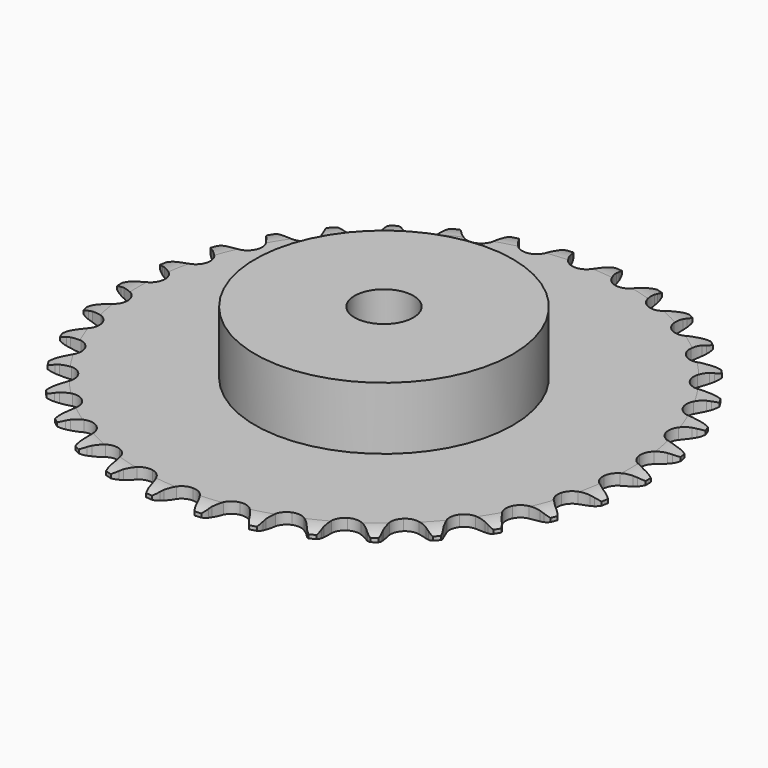
from build123d import *

# Parameters (mm, degrees)
PAD_DEPTH         = 3
SKETCH001_R       = 35
PAD001_DEPTH      = 20
SKETCH002_R       = 8
POCKET_DEPTH      = 0.001
POCKET_DEPTH_BACK = 20.001


with BuildPart() as part:
    # Sprocket → Pad (new body)
    with BuildSketch(Plane.XY):
        with BuildLine():
            ThreePointArc((-6.728572, 72.612852), (-5.651498, 71.430147), (-4.907524, 70.014032))
            Line((-4.907524, 70.014032), (-4.52944, 68.998032))
            ThreePointArc((-4.52944, 68.998032), (-3.930315, 67.683373), (-3.150307, 66.467287))
            ThreePointArc((-3.150307, 66.467287), (-1.761884, 65.305295), (0, 64.888517))
            ThreePointArc((0, 64.888517), (1.761884, 65.305295), (3.150307, 66.467287))
            ThreePointArc((3.150307, 66.467287), (3.930315, 67.683373), (4.52944, 68.998032))
            Line((4.52944, 68.998032), (4.907524, 70.014032))
            ThreePointArc((4.907524, 70.014032), (5.651498, 71.430147), (6.728572, 72.612852))
            ThreePointArc((6.728572, 72.612852), (7.569985, 71.252373), (8.04108, 69.723665))
            Line((8.04108, 69.723665), (8.226038, 68.655491))
            ThreePointArc((8.226038, 68.655491), (8.573393, 67.253128), (9.116665, 65.914422))
            ThreePointArc((9.116665, 65.914422), (10.267932, 64.517094), (11.923234, 63.783666))
            ThreePointArc((11.923234, 63.783666), (13.731701, 63.869603), (15.309998, 64.756687))
            Line((15.309998, 64.756687), (17.130672, 66.990927))
            ThreePointArc((17.130672, 66.990927), (17.397405, 67.463013), (17.689009, 67.920155))
            ThreePointArc((17.689009, 67.920155), (18.680525, 69.175453), (19.956581, 70.140108))
            ThreePointArc((19.956581, 70.140108), (20.533681, 68.648185), (20.715856, 67.058943))
            Line((20.715856, 67.058943), (20.701387, 65.974971))
            ThreePointArc((20.701387, 65.974971), (20.785145, 64.532659), (21.07318, 63.116921))
            ThreePointArc((21.07318, 63.116921), (21.948085, 61.53184), (23.440436, 60.50674))
            ThreePointArc((23.440436, 60.50674), (25.233902, 60.258908), (26.948327, 60.840877))
            Line((26.948327, 60.840877), (29.148541, 62.702526))
            ThreePointArc((29.148541, 62.702526), (29.497477, 63.117563), (29.868116, 63.513338))
            ThreePointArc((29.868116, 63.513338), (31.07341, 64.565072), (32.504994, 65.278827))
            ThreePointArc((32.504994, 65.278827), (32.798127, 63.706265), (32.685177, 62.110609))
            Line((32.685177, 62.110609), (32.471776, 61.047751))
            ThreePointArc((32.471776, 61.047751), (32.289083, 59.614607), (32.312073, 58.170049))
            ThreePointArc((32.312073, 58.170049), (32.880823, 56.451193), (34.159402, 55.169329))
            ThreePointArc((34.159402, 55.169329), (35.876792, 54.596168), (37.668962, 54.853203))
            Line((37.668962, 54.853203), (40.17379, 56.278866))
            ThreePointArc((40.17379, 56.278866), (40.593048, 56.622719), (41.0301, 56.943651))
            ThreePointArc((41.0301, 56.943651), (42.408127, 57.756005), (43.946487, 58.194554))
            ThreePointArc((43.946487, 58.194554), (43.945672, 56.594905), (43.541444, 55.047172))
            Line((43.541444, 55.047172), (43.136377, 54.041624))
            ThreePointArc((43.136377, 54.041624), (42.693455, 52.666452), (42.450617, 51.242265))
            ThreePointArc((42.450617, 51.242265), (42.693845, 49.448169), (43.715111, 47.953192))
            ThreePointArc((43.715111, 47.953192), (45.297941, 47.074222), (47.106826, 46.99757))
            Line((47.106826, 46.99757), (49.83097, 47.938697))
            ThreePointArc((49.83097, 47.938697), (50.306271, 48.199657), (50.794853, 48.434816))
            ThreePointArc((50.794853, 48.434816), (52.298686, 48.980126), (53.891436, 49.128536))
            ThreePointArc((53.891436, 49.128536), (53.5967, 47.556273), (52.91496, 46.10917))
            Line((52.91496, 46.10917), (52.332021, 45.195175))
            ThreePointArc((52.332021, 45.195175), (51.643953, 43.924804), (51.143556, 42.569488))
            ThreePointArc((51.143556, 42.569488), (51.052978, 40.761247), (51.782154, 39.104068))
            ThreePointArc((51.782154, 39.104068), (53.176523, 37.949219), (54.940524, 37.54149))
            Line((54.940524, 37.54149), (57.791215, 37.966033))
            ThreePointArc((57.791215, 37.966033), (58.306375, 38.135213), (58.829848, 38.276592))
            ThreePointArc((58.829848, 38.276592), (60.408276, 38.536288), (62.001177, 38.389503))
            ThreePointArc((62.001177, 38.389503), (61.422556, 36.89817), (60.48652, 35.600975))
            Line((60.48652, 35.600975), (59.74556, 34.809657))
            ThreePointArc((59.74556, 34.809657), (58.835778, 33.687349), (58.094862, 32.447058))
            ThreePointArc((58.094862, 32.447058), (57.673563, 30.686249), (58.085818, 28.923301))
            ThreePointArc((58.085818, 28.923301), (59.244242, 27.531901), (60.903287, 26.80698))
            Line((60.903287, 26.80698), (63.78345, 26.700481))
            ThreePointArc((63.78345, 26.700481), (64.320925, 26.77212), (64.861463, 26.814904))
            ThreePointArc((64.861463, 26.814904), (66.460735, 26.780143), (67.999542, 26.343163))
            ThreePointArc((67.999542, 26.343163), (67.156741, 24.983543), (65.998284, 23.880432))
            Line((65.998284, 23.880432), (65.124536, 23.238739))
            ThreePointArc((65.124536, 23.238739), (64.024022, 22.302712), (63.067818, 21.219682))
            ThreePointArc((63.067818, 21.219682), (62.330145, 19.566268), (62.411439, 17.757585))
            ThreePointArc((62.411439, 17.757585), (63.29447, 16.177017), (64.792063, 15.159591))
            Line((64.792063, 15.159591), (67.603616, 14.525677))
            ThreePointArc((67.603616, 14.525677), (68.145103, 14.497335), (68.684299, 14.440067))
            ThreePointArc((68.684299, 14.440067), (70.249953, 14.112032), (71.682264, 13.399737))
            ThreePointArc((71.682264, 13.399737), (70.603984, 12.218132), (69.262555, 11.34667))
            Line((69.262555, 11.34667), (68.285774, 10.876453))
            ThreePointArc((68.285774, 10.876453), (67.032004, 10.158583), (65.893075, 9.269695))
            ThreePointArc((65.893075, 9.269695), (64.864148, 7.779981), (64.611714, 5.987157))
            ThreePointArc((64.611714, 5.987157), (65.18928, 4.271244), (66.474422, 2.99596))
            Line((66.474422, 2.99596), (69.121622, 1.856217))
            ThreePointArc((69.121622, 1.856217), (69.648682, 1.72886), (70.168174, 1.57349))
            ThreePointArc((70.168174, 1.57349), (71.646893, 0.963353), (72.923932, 0))
            ThreePointArc((72.923932, 0), (71.646893, -0.963353), (70.168174, -1.57349))
            Line((70.168174, -1.57349), (69.121622, -1.856217))
            ThreePointArc((69.121622, -1.856217), (67.757291, -2.331485), (66.474422, -2.99596))
            ThreePointArc((66.474422, -2.99596), (65.18928, -4.271244), (64.611714, -5.987157))
            ThreePointArc((64.611714, -5.987157), (64.864148, -7.779981), (65.893075, -9.269695))
            Line((65.893075, -9.269695), (68.285774, -10.876453))
            ThreePointArc((68.285774, -10.876453), (68.780458, -11.098489), (69.262555, -11.34667))
            ThreePointArc((69.262555, -11.34667), (70.603984, -12.218132), (71.682264, -13.399737))
            ThreePointArc((71.682264, -13.399737), (70.249953, -14.112032), (68.684299, -14.440067))
            Line((68.684299, -14.440067), (67.603616, -14.525677))
            ThreePointArc((67.603616, -14.525677), (66.175185, -14.742156), (64.792063, -15.159591))
            ThreePointArc((64.792063, -15.159591), (63.29447, -16.177017), (62.411439, -17.757585))
            ThreePointArc((62.411439, -17.757585), (62.330145, -19.566268), (63.067818, -21.219682))
            Line((63.067818, -21.219682), (65.124536, -23.238739))
            ThreePointArc((65.124536, -23.238739), (65.569998, -23.547892), (65.998284, -23.880432))
            ThreePointArc((65.998284, -23.880432), (67.156741, -24.983543), (67.999542, -26.343163))
            ThreePointArc((67.999542, -26.343163), (66.460735, -26.780143), (64.861463, -26.814904))
            Line((64.861463, -26.814904), (63.78345, -26.700481))
            ThreePointArc((63.78345, -26.700481), (62.339563, -26.650802), (60.903287, -26.80698))
            ThreePointArc((60.903287, -26.80698), (59.244242, -27.531901), (58.085818, -28.923301))
            ThreePointArc((58.085818, -28.923301), (57.673563, -30.686249), (58.094862, -32.447058))
            Line((58.094862, -32.447058), (59.74556, -34.809657))
            ThreePointArc((59.74556, -34.809657), (60.12663, -35.1954), (60.48652, -35.600975))
            ThreePointArc((60.48652, -35.600975), (61.422556, -36.89817), (62.001177, -38.389503))
            ThreePointArc((62.001177, -38.389503), (60.408276, -38.536288), (58.829848, -38.276592))
            Line((58.829848, -38.276592), (57.791215, -37.966033))
            ThreePointArc((57.791215, -37.966033), (56.381041, -37.651886), (54.940524, -37.54149))
            ThreePointArc((54.940524, -37.54149), (53.176523, -37.949219), (51.782154, -39.104068))
            ThreePointArc((51.782154, -39.104068), (51.052978, -40.761247), (51.143556, -42.569488))
            Line((51.143556, -42.569488), (52.332021, -45.195175))
            ThreePointArc((52.332021, -45.195175), (52.635722, -45.64437), (52.91496, -46.10917))
            ThreePointArc((52.91496, -46.10917), (53.5967, -47.556273), (53.891436, -49.128536))
            ThreePointArc((53.891436, -49.128536), (52.298686, -48.980126), (50.794853, -48.434816))
            Line((50.794853, -48.434816), (49.83097, -47.938697))
            ThreePointArc((49.83097, -47.938697), (48.502531, -47.37078), (47.106826, -46.99757))
            ThreePointArc((47.106826, -46.99757), (45.297941, -47.074222), (43.715111, -47.953192))
            ThreePointArc((43.715111, -47.953192), (42.693845, -49.448169), (42.450617, -51.242265))
            Line((42.450617, -51.242265), (43.136377, -54.041624))
            ThreePointArc((43.136377, -54.041624), (43.352368, -54.538977), (43.541444, -55.047172))
            ThreePointArc((43.541444, -55.047172), (43.945672, -56.594905), (43.946487, -58.194554))
            ThreePointArc((43.946487, -58.194554), (42.408127, -57.756005), (41.0301, -56.943651))
            Line((41.0301, -56.943651), (40.17379, -56.278866))
            ThreePointArc((40.17379, -56.278866), (38.972325, -55.476519), (37.668962, -54.853203))
            ThreePointArc((37.668962, -54.853203), (35.876792, -54.596168), (34.159402, -55.169329))
            ThreePointArc((34.159402, -55.169329), (32.880823, -56.451193), (32.312073, -58.170049))
            Line((32.312073, -58.170049), (32.471776, -61.047751))
            ThreePointArc((32.471776, -61.047751), (32.592701, -61.576324), (32.685177, -62.110609))
            ThreePointArc((32.685177, -62.110609), (32.798127, -63.706265), (32.504994, -65.278827))
            ThreePointArc((32.504994, -65.278827), (31.07341, -64.565072), (29.868116, -63.513338))
            Line((29.868116, -63.513338), (29.148541, -62.702526))
            ThreePointArc((29.148541, -62.702526), (28.114964, -61.693072), (26.948327, -60.840877))
            ThreePointArc((26.948327, -60.840877), (25.233902, -60.258908), (23.440436, -60.50674))
            ThreePointArc((23.440436, -60.50674), (21.948085, -61.53184), (21.07318, -63.116921))
            Line((21.07318, -63.116921), (20.701387, -65.974971))
            ThreePointArc((20.701387, -65.974971), (20.723129, -66.516763), (20.715856, -67.058943))
            ThreePointArc((20.715856, -67.058943), (20.533681, -68.648185), (19.956581, -70.140108))
            ThreePointArc((19.956581, -70.140108), (18.680525, -69.175453), (17.689009, -67.920155))
            Line((17.689009, -67.920155), (17.130672, -66.990927))
            ThreePointArc((17.130672, -66.990927), (16.300181, -65.808741), (15.309998, -64.756687))
            ThreePointArc((15.309998, -64.756687), (13.731701, -63.869603), (11.923234, -63.783666))
            ThreePointArc((11.923234, -63.783666), (10.267932, -64.517094), (9.116665, -65.914422))
            Line((9.116665, -65.914422), (8.226038, -68.655491))
            ThreePointArc((8.226038, -68.655491), (8.147855, -69.192054), (8.04108, -69.723665))
            ThreePointArc((8.04108, -69.723665), (7.569985, -71.252373), (6.728572, -72.612852))
            ThreePointArc((6.728572, -72.612852), (5.651498, -71.430147), (4.907524, -70.014032))
            Line((4.907524, -70.014032), (4.52944, -68.998032))
            ThreePointArc((4.52944, -68.998032), (3.930315, -67.683373), (3.150307, -66.467287))
            ThreePointArc((3.150307, -66.467287), (1.761884, -65.305295), (0, -64.888517))
            ThreePointArc((0, -64.888517), (-1.761884, -65.305295), (-3.150307, -66.467287))
            Line((-3.150307, -66.467287), (-4.52944, -68.998032))
            ThreePointArc((-4.52944, -68.998032), (-4.704885, -69.511092), (-4.907524, -70.014032))
            ThreePointArc((-4.907524, -70.014032), (-5.651498, -71.430147), (-6.728572, -72.612852))
            ThreePointArc((-6.728572, -72.612852), (-7.569985, -71.252373), (-8.04108, -69.723665))
            Line((-8.04108, -69.723665), (-8.226038, -68.655491))
            ThreePointArc((-8.226038, -68.655491), (-8.573393, -67.253128), (-9.116665, -65.914422))
            ThreePointArc((-9.116665, -65.914422), (-10.267932, -64.517094), (-11.923234, -63.783666))
            ThreePointArc((-11.923234, -63.783666), (-13.731701, -63.869603), (-15.309998, -64.756687))
            Line((-15.309998, -64.756687), (-17.130672, -66.990927))
            ThreePointArc((-17.130672, -66.990927), (-17.397405, -67.463013), (-17.689009, -67.920155))
            ThreePointArc((-17.689009, -67.920155), (-18.680525, -69.175453), (-19.956581, -70.140108))
            ThreePointArc((-19.956581, -70.140108), (-20.533681, -68.648185), (-20.715856, -67.058943))
            Line((-20.715856, -67.058943), (-20.701387, -65.974971))
            ThreePointArc((-20.701387, -65.974971), (-20.785145, -64.532659), (-21.07318, -63.116921))
            ThreePointArc((-21.07318, -63.116921), (-21.948085, -61.53184), (-23.440436, -60.50674))
            ThreePointArc((-23.440436, -60.50674), (-25.233902, -60.258908), (-26.948327, -60.840877))
            Line((-26.948327, -60.840877), (-29.148541, -62.702526))
            ThreePointArc((-29.148541, -62.702526), (-29.497477, -63.117563), (-29.868116, -63.513338))
            ThreePointArc((-29.868116, -63.513338), (-31.07341, -64.565072), (-32.504994, -65.278827))
            ThreePointArc((-32.504994, -65.278827), (-32.798127, -63.706265), (-32.685177, -62.110609))
            Line((-32.685177, -62.110609), (-32.471776, -61.047751))
            ThreePointArc((-32.471776, -61.047751), (-32.289083, -59.614607), (-32.312073, -58.170049))
            ThreePointArc((-32.312073, -58.170049), (-32.880823, -56.451193), (-34.159402, -55.169329))
            ThreePointArc((-34.159402, -55.169329), (-35.876792, -54.596168), (-37.668962, -54.853203))
            Line((-37.668962, -54.853203), (-40.17379, -56.278866))
            ThreePointArc((-40.17379, -56.278866), (-40.593048, -56.622719), (-41.0301, -56.943651))
            ThreePointArc((-41.0301, -56.943651), (-42.408127, -57.756005), (-43.946487, -58.194554))
            ThreePointArc((-43.946487, -58.194554), (-43.945672, -56.594905), (-43.541444, -55.047172))
            Line((-43.541444, -55.047172), (-43.136377, -54.041624))
            ThreePointArc((-43.136377, -54.041624), (-42.693455, -52.666452), (-42.450617, -51.242265))
            ThreePointArc((-42.450617, -51.242265), (-42.693845, -49.448169), (-43.715111, -47.953192))
            ThreePointArc((-43.715111, -47.953192), (-45.297941, -47.074222), (-47.106826, -46.99757))
            Line((-47.106826, -46.99757), (-49.83097, -47.938697))
            ThreePointArc((-49.83097, -47.938697), (-50.306271, -48.199657), (-50.794853, -48.434816))
            ThreePointArc((-50.794853, -48.434816), (-52.298686, -48.980126), (-53.891436, -49.128536))
            ThreePointArc((-53.891436, -49.128536), (-53.5967, -47.556273), (-52.91496, -46.10917))
            Line((-52.91496, -46.10917), (-52.332021, -45.195175))
            ThreePointArc((-52.332021, -45.195175), (-51.643953, -43.924804), (-51.143556, -42.569488))
            ThreePointArc((-51.143556, -42.569488), (-51.052978, -40.761247), (-51.782154, -39.104068))
            ThreePointArc((-51.782154, -39.104068), (-53.176523, -37.949219), (-54.940524, -37.54149))
            Line((-54.940524, -37.54149), (-57.791215, -37.966033))
            ThreePointArc((-57.791215, -37.966033), (-58.306375, -38.135213), (-58.829848, -38.276592))
            ThreePointArc((-58.829848, -38.276592), (-60.408276, -38.536288), (-62.001177, -38.389503))
            ThreePointArc((-62.001177, -38.389503), (-61.422556, -36.89817), (-60.48652, -35.600975))
            Line((-60.48652, -35.600975), (-59.74556, -34.809657))
            ThreePointArc((-59.74556, -34.809657), (-58.835778, -33.687349), (-58.094862, -32.447058))
            ThreePointArc((-58.094862, -32.447058), (-57.673563, -30.686249), (-58.085818, -28.923301))
            ThreePointArc((-58.085818, -28.923301), (-59.244242, -27.531901), (-60.903287, -26.80698))
            Line((-60.903287, -26.80698), (-63.78345, -26.700481))
            ThreePointArc((-63.78345, -26.700481), (-64.320925, -26.77212), (-64.861463, -26.814904))
            ThreePointArc((-64.861463, -26.814904), (-66.460735, -26.780143), (-67.999542, -26.343163))
            ThreePointArc((-67.999542, -26.343163), (-67.156741, -24.983543), (-65.998284, -23.880432))
            Line((-65.998284, -23.880432), (-65.124536, -23.238739))
            ThreePointArc((-65.124536, -23.238739), (-64.024022, -22.302712), (-63.067818, -21.219682))
            ThreePointArc((-63.067818, -21.219682), (-62.330145, -19.566268), (-62.411439, -17.757585))
            ThreePointArc((-62.411439, -17.757585), (-63.29447, -16.177017), (-64.792063, -15.159591))
            Line((-64.792063, -15.159591), (-67.603616, -14.525677))
            ThreePointArc((-67.603616, -14.525677), (-68.145103, -14.497335), (-68.684299, -14.440067))
            ThreePointArc((-68.684299, -14.440067), (-70.249953, -14.112032), (-71.682264, -13.399737))
            ThreePointArc((-71.682264, -13.399737), (-70.603984, -12.218132), (-69.262555, -11.34667))
            Line((-69.262555, -11.34667), (-68.285774, -10.876453))
            ThreePointArc((-68.285774, -10.876453), (-67.032004, -10.158583), (-65.893075, -9.269695))
            ThreePointArc((-65.893075, -9.269695), (-64.864148, -7.779981), (-64.611714, -5.987157))
            ThreePointArc((-64.611714, -5.987157), (-65.18928, -4.271244), (-66.474422, -2.99596))
            Line((-66.474422, -2.99596), (-69.121622, -1.856217))
            ThreePointArc((-69.121622, -1.856217), (-69.648682, -1.72886), (-70.168174, -1.57349))
            ThreePointArc((-70.168174, -1.57349), (-71.646893, -0.963353), (-72.923932, 0))
            ThreePointArc((-72.923932, 0), (-71.646893, 0.963353), (-70.168174, 1.57349))
            Line((-70.168174, 1.57349), (-69.121622, 1.856217))
            ThreePointArc((-69.121622, 1.856217), (-67.757291, 2.331485), (-66.474422, 2.99596))
            ThreePointArc((-66.474422, 2.99596), (-65.18928, 4.271244), (-64.611714, 5.987157))
            ThreePointArc((-64.611714, 5.987157), (-64.864148, 7.779981), (-65.893075, 9.269695))
            Line((-65.893075, 9.269695), (-68.285774, 10.876453))
            ThreePointArc((-68.285774, 10.876453), (-68.780458, 11.098489), (-69.262555, 11.34667))
            ThreePointArc((-69.262555, 11.34667), (-70.603984, 12.218132), (-71.682264, 13.399737))
            ThreePointArc((-71.682264, 13.399737), (-70.249953, 14.112032), (-68.684299, 14.440067))
            Line((-68.684299, 14.440067), (-67.603616, 14.525677))
            ThreePointArc((-67.603616, 14.525677), (-66.175185, 14.742156), (-64.792063, 15.159591))
            ThreePointArc((-64.792063, 15.159591), (-63.29447, 16.177017), (-62.411439, 17.757585))
            ThreePointArc((-62.411439, 17.757585), (-62.330145, 19.566268), (-63.067818, 21.219682))
            Line((-63.067818, 21.219682), (-65.124536, 23.238739))
            ThreePointArc((-65.124536, 23.238739), (-65.569998, 23.547892), (-65.998284, 23.880432))
            ThreePointArc((-65.998284, 23.880432), (-67.156741, 24.983543), (-67.999542, 26.343163))
            ThreePointArc((-67.999542, 26.343163), (-66.460735, 26.780143), (-64.861463, 26.814904))
            Line((-64.861463, 26.814904), (-63.78345, 26.700481))
            ThreePointArc((-63.78345, 26.700481), (-62.339563, 26.650802), (-60.903287, 26.80698))
            ThreePointArc((-60.903287, 26.80698), (-59.244242, 27.531901), (-58.085818, 28.923301))
            ThreePointArc((-58.085818, 28.923301), (-57.673563, 30.686249), (-58.094862, 32.447058))
            Line((-58.094862, 32.447058), (-59.74556, 34.809657))
            ThreePointArc((-59.74556, 34.809657), (-60.12663, 35.1954), (-60.48652, 35.600975))
            ThreePointArc((-60.48652, 35.600975), (-61.422556, 36.89817), (-62.001177, 38.389503))
            ThreePointArc((-62.001177, 38.389503), (-60.408276, 38.536288), (-58.829848, 38.276592))
            Line((-58.829848, 38.276592), (-57.791215, 37.966033))
            ThreePointArc((-57.791215, 37.966033), (-56.381041, 37.651886), (-54.940524, 37.54149))
            ThreePointArc((-54.940524, 37.54149), (-53.176523, 37.949219), (-51.782154, 39.104068))
            ThreePointArc((-51.782154, 39.104068), (-51.052978, 40.761247), (-51.143556, 42.569488))
            Line((-51.143556, 42.569488), (-52.332021, 45.195175))
            ThreePointArc((-52.332021, 45.195175), (-52.635722, 45.64437), (-52.91496, 46.10917))
            ThreePointArc((-52.91496, 46.10917), (-53.5967, 47.556273), (-53.891436, 49.128536))
            ThreePointArc((-53.891436, 49.128536), (-52.298686, 48.980126), (-50.794853, 48.434816))
            Line((-50.794853, 48.434816), (-49.83097, 47.938697))
            ThreePointArc((-49.83097, 47.938697), (-48.502531, 47.37078), (-47.106826, 46.99757))
            ThreePointArc((-47.106826, 46.99757), (-45.297941, 47.074222), (-43.715111, 47.953192))
            ThreePointArc((-43.715111, 47.953192), (-42.693845, 49.448169), (-42.450617, 51.242265))
            Line((-42.450617, 51.242265), (-43.136377, 54.041624))
            ThreePointArc((-43.136377, 54.041624), (-43.352368, 54.538977), (-43.541444, 55.047172))
            ThreePointArc((-43.541444, 55.047172), (-43.945672, 56.594905), (-43.946487, 58.194554))
            ThreePointArc((-43.946487, 58.194554), (-42.408127, 57.756005), (-41.0301, 56.943651))
            Line((-41.0301, 56.943651), (-40.17379, 56.278866))
            ThreePointArc((-40.17379, 56.278866), (-38.972325, 55.476519), (-37.668962, 54.853203))
            ThreePointArc((-37.668962, 54.853203), (-35.876792, 54.596168), (-34.159402, 55.169329))
            ThreePointArc((-34.159402, 55.169329), (-32.880823, 56.451193), (-32.312073, 58.170049))
            Line((-32.312073, 58.170049), (-32.471776, 61.047751))
            ThreePointArc((-32.471776, 61.047751), (-32.592701, 61.576324), (-32.685177, 62.110609))
            ThreePointArc((-32.685177, 62.110609), (-32.798127, 63.706265), (-32.504994, 65.278827))
            ThreePointArc((-32.504994, 65.278827), (-31.07341, 64.565072), (-29.868116, 63.513338))
            Line((-29.868116, 63.513338), (-29.148541, 62.702526))
            ThreePointArc((-29.148541, 62.702526), (-28.114964, 61.693072), (-26.948327, 60.840877))
            ThreePointArc((-26.948327, 60.840877), (-25.233902, 60.258908), (-23.440436, 60.50674))
            ThreePointArc((-23.440436, 60.50674), (-21.948085, 61.53184), (-21.07318, 63.116921))
            Line((-21.07318, 63.116921), (-20.701387, 65.974971))
            ThreePointArc((-20.701387, 65.974971), (-20.723129, 66.516763), (-20.715856, 67.058943))
            ThreePointArc((-20.715856, 67.058943), (-20.533681, 68.648185), (-19.956581, 70.140108))
            ThreePointArc((-19.956581, 70.140108), (-18.680525, 69.175453), (-17.689009, 67.920155))
            Line((-17.689009, 67.920155), (-17.130672, 66.990927))
            ThreePointArc((-17.130672, 66.990927), (-16.300181, 65.808741), (-15.309998, 64.756687))
            ThreePointArc((-15.309998, 64.756687), (-13.731701, 63.869603), (-11.923234, 63.783666))
            ThreePointArc((-11.923234, 63.783666), (-10.267932, 64.517094), (-9.116665, 65.914422))
            Line((-9.116665, 65.914422), (-8.226038, 68.655491))
            ThreePointArc((-8.226038, 68.655491), (-8.147855, 69.192054), (-8.04108, 69.723665))
            ThreePointArc((-8.04108, 69.723665), (-7.569985, 71.252373), (-6.728572, 72.612852))
        make_face()
    extrude(amount=PAD_DEPTH)

    # Sketch → Groove (revolve, cut)
    with BuildSketch(Plane.XZ):
        with BuildLine():
            Line((66.8, 0), (71.8, 0))
            Line((76.8, 0), (71.8, 0))
            Line((76.8, 3), (76.8, 0))
            Line((71.8, 3), (76.8, 3))
            Line((66.8, 3), (71.8, 3))
            ThreePointArc((71.8, 2), (69.34951, 2.747549), (66.8, 3))
            Line((71.8, 1), (71.8, 2))
            ThreePointArc((66.8, 0), (69.34951, 0.252451), (71.8, 1))
        make_face()
    revolve(axis=Axis((0, 0, 0), (0, 0, 1)), mode=Mode.SUBTRACT)

    # Sketch001 → Pad001 (join)
    with BuildSketch(Plane.XY):
        Circle(SKETCH001_R)
    extrude(amount=PAD001_DEPTH)

    # Sketch002 → Pocket (cut, two sides)
    with BuildSketch(Plane.XY) as pocket_sk:
        Circle(SKETCH002_R)
    extrude(amount=-POCKET_DEPTH, mode=Mode.SUBTRACT)
    extrude(pocket_sk.sketch, amount=POCKET_DEPTH_BACK, mode=Mode.SUBTRACT)


solid = part.part
